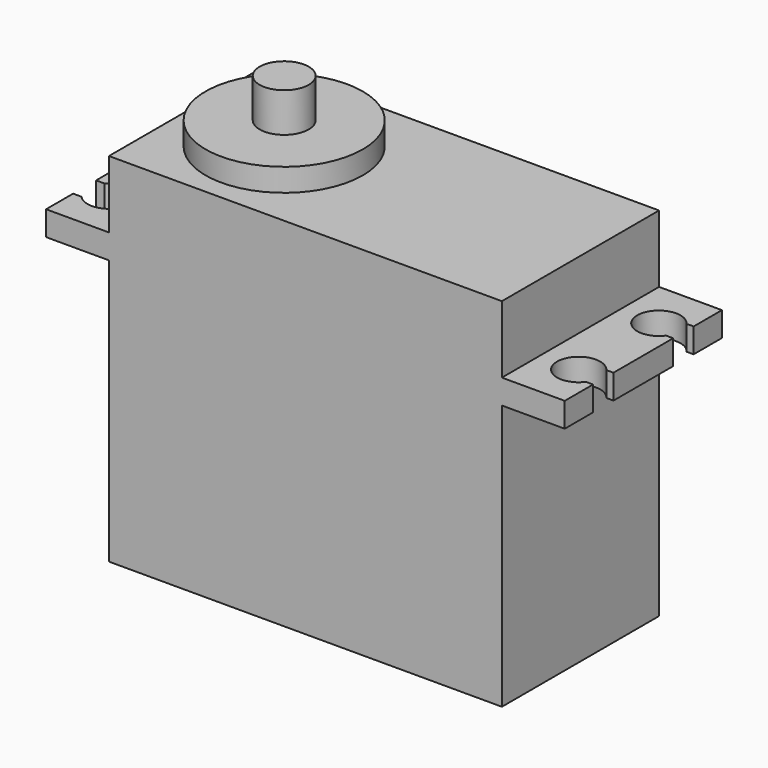
from build123d import *

# Parameters (mm, degrees)
F0_W      = 52.8
F0_H      = 20
F1_DEPTH  = 2.5
F2_W      = 40
F2_H      = 20
F3_DEPTH  = 6.85
F4_W      = 40
F4_H      = 20
F5_DEPTH  = 27
F6_R      = 2.2
F7_DEPTH  = 2.5
F8_W      = 0.7251760651
F8_H      = 2.6
F8_W_2    = 0.8560355749
F8_H_2    = 2.9239568868
F9_DEPTH  = 4
F10_W     = 0.7251760651
F10_H     = 2.6
F11_DEPTH = 5
F12_R     = 8
F13_DEPTH = 2.33
F14_R     = 2.5
F15_DEPTH = 4


with BuildPart() as f1:
    # F0 (on Top) → F1 (new body)
    with BuildSketch(Plane.XY):
        Rectangle(F0_W, F0_H)
    extrude(amount=F1_DEPTH)

    # F2 (on face) → F3 (join)
    with BuildSketch(Plane.XY.offset(2.5)):
        Rectangle(F2_W, F2_H)
    extrude(amount=F3_DEPTH)

    # F4 (on face) → F5 (join)
    with BuildSketch(Plane(origin=(0, 0, 0), x_dir=(1, 0, 0), z_dir=(0, 0, -1))):
        Rectangle(F4_W, F4_H)
    extrude(amount=F5_DEPTH)

    # F6 (on face) → F7 (cut, through all)
    with BuildSketch(Plane.XY.offset(2.5)):
        with Locations((-23.9, 5.1)):
            Circle(F6_R)
        with Locations((-23.9, -5.1)):
            Circle(F6_R)
        with Locations((23.9, 5.1)):
            Circle(F6_R)
        with Locations((23.9, -5.1)):
            Circle(F6_R)
    extrude(amount=-F7_DEPTH, mode=Mode.SUBTRACT)

    # F8 (on face) → F9 (cut)
    with BuildSketch(Plane.XY.offset(2.5)):
        with Locations((-26.0374119675, 5.1)):
            Rectangle(F8_W, F8_H)
        with Locations((-25.9719822126, -5.1)):
            Rectangle(F8_W_2, F8_H_2)
    extrude(amount=-F9_DEPTH, mode=Mode.SUBTRACT)

    # F10 (on face) → F11 (cut)
    with BuildSketch(Plane.XY.offset(2.5)):
        with Locations((26.0374119675, 5.1)):
            Rectangle(F10_W, F10_H)
        with Locations((26.0374119675, -5.1)):
            Rectangle(F10_W, F10_H)
    extrude(amount=-F11_DEPTH, mode=Mode.SUBTRACT)

    # F12 (on face) → F13 (join)
    with BuildSketch(Plane.XY.offset(9.35)):
        with Locations((-10.16, 0)):
            Circle(F12_R)
    extrude(amount=F13_DEPTH)

    # F14 (on face) → F15 (join)
    with BuildSketch(Plane.XY.offset(11.68)):
        with Locations((-10.16, 0)):
            Circle(F14_R)
    extrude(amount=F15_DEPTH)


solid = f1.part
